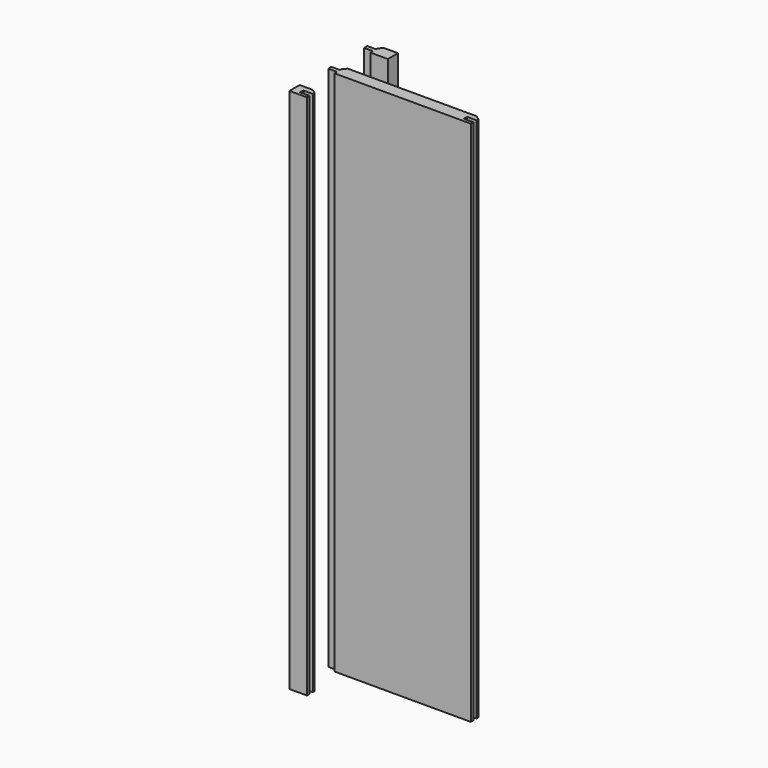
from build123d import *

# Parameters (mm, degrees)
F1_DEPTH = 332
F2_SIZE2 = 2.3835071852
F2_SIZE  = 2
F3_SIZE2 = 2.8562960135
F3_SIZE  = 2
F4_DEPTH = 332
F5_DEPTH = 332
F6_SIZE2 = 2.3835071852
F6_SIZE  = 2
F7_SIZE2 = 2.8562960135
F7_SIZE  = 2


with BuildPart() as f1:
    # F0 (on Top) → F1 (new body)
    with BuildSketch(Plane.XY):
        Polygon((45.75, 0.6), (45.75, 4), (-40.25, 4), (-40.25, 0.5), (-45.75, 0.5), (-45.75, -2), (-40.25, -2), (-40.25, -4), (45.75, -4), (45.75, -2), (39.75, -2), (39.75, 0.6), align=None)
    extrude(amount=-F1_DEPTH)

    # F2
    f2_edges = [f1.edges().sort_by_distance(p)[0] for p in [
        (-40.25, 4, -166),
    ]]
    f2_side = f1.faces().sort_by_distance((2.75, 4, -166))[0]
    chamfer(f2_edges, length=F2_SIZE, length2=F2_SIZE2, reference=f2_side)

    # F3
    f3_edges = [f1.edges().sort_by_distance(p)[0] for p in [
        (45.75, 4, -166),
    ]]
    f3_side = f1.faces().sort_by_distance((45.75, 2.3, -166))[0]
    chamfer(f3_edges, length=F3_SIZE, length2=F3_SIZE2, reference=f3_side)


with BuildPart() as f4:
    # F0 (on Top) → F4 (new body)
    with BuildSketch(Plane.XY):
        Polygon((-29.2261481244, 28.9047427452), (-29.2261481244, 32.3047427452), (-40.2261481244, 32.3047427452), (-40.2261481244, 28.8047427452), (-45.7261481244, 28.8047427452), (-45.7261481244, 26.3047427452), (-40.2261481244, 26.3047427452), (-40.2261481244, 24.3047427452), (-29.2261481244, 24.3047427452), (-29.2261481244, 26.3047427452), align=None)
    extrude(amount=-F4_DEPTH)

    # F6
    f6_edges = [f4.edges().sort_by_distance(p)[0] for p in [
        (-40.226148, 32.304743, -166),
    ]]
    f6_side = f4.faces().sort_by_distance((-34.726148, 32.304743, -166))[0]
    chamfer(f6_edges, length=F6_SIZE, length2=F6_SIZE2, reference=f6_side)


with BuildPart() as f5:
    # F0 (on Top) → F5 (new body)
    with BuildSketch(Plane.XY):
        Polygon((-34.8161143508, -27.8352580988), (-34.8161143508, -24.4352580988), (-40.3161143508, -24.4352580988), (-45.8161143508, -24.4352580988), (-45.8161143508, -30.4352580988), (-45.8161143508, -32.4352580988), (-40.3161143508, -32.4352580988), (-34.8161143508, -32.4352580988), (-34.8161143508, -30.4352580988), (-40.8161143508, -30.4352580988), (-40.8161143508, -27.8352580988), align=None)
    extrude(amount=-F5_DEPTH)

    # F7
    f7_edges = [f5.edges().sort_by_distance(p)[0] for p in [
        (-34.816114, -24.435258, -166),
    ]]
    f7_side = f5.faces().sort_by_distance((-34.816114, -26.135258, -166))[0]
    chamfer(f7_edges, length=F7_SIZE, length2=F7_SIZE2, reference=f7_side)


solid = Compound([f1.part, f4.part, f5.part])
